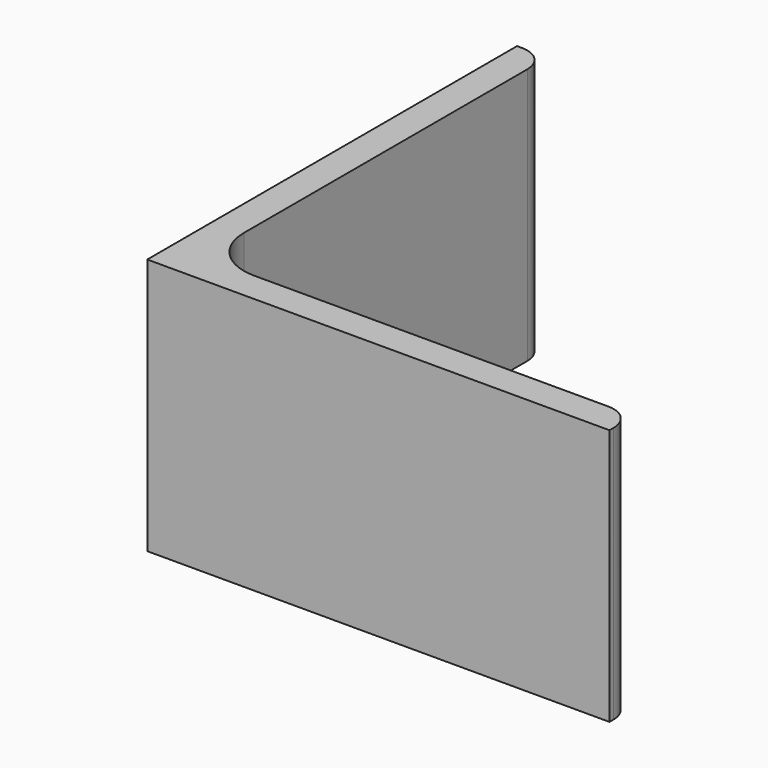
from build123d import *

# Parameters (mm, degrees)
EXTRUDE_DEPTH = 50


with BuildPart() as part:
    # Sketch → Extrude (new body)
    with BuildSketch(Plane.XY):
        with BuildLine():
            Line((0, 0), (90, 0))
            Line((90, 0), (90, 1))
            ThreePointArc((90, 1), (88.535534, 4.535534), (85, 6))
            Line((85, 6), (16, 6))
            ThreePointArc((6, 16), (8.928932, 8.928932), (16, 6))
            Line((6, 85), (6, 16))
            ThreePointArc((6, 85), (4.535534, 88.535534), (1, 90))
            Line((0, 90), (1, 90))
            Line((0, 0), (0, 90))
        make_face()
    extrude(amount=EXTRUDE_DEPTH)


solid = part.part
